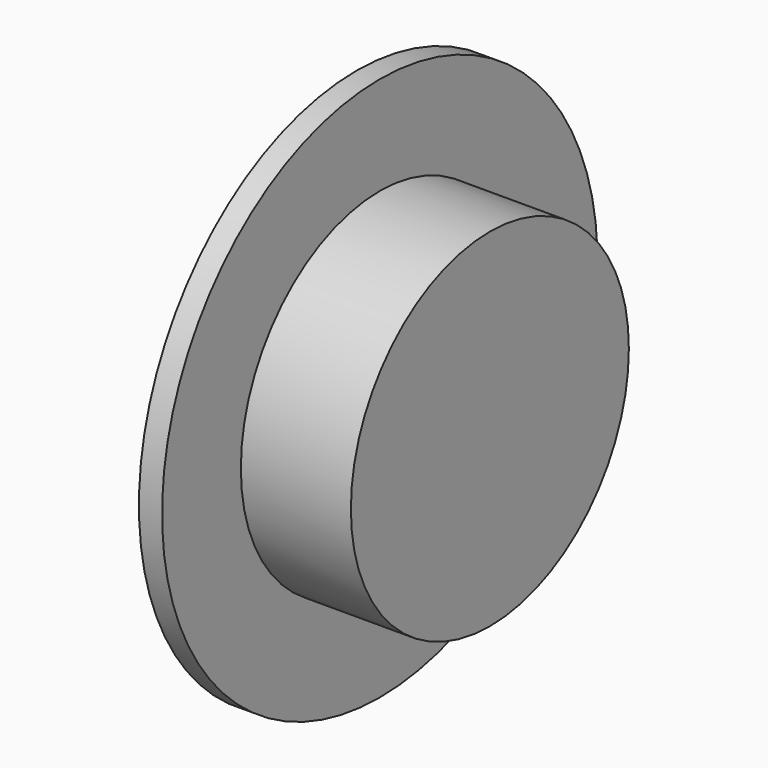
from build123d import *


with BuildPart() as f1:
    # F0 (on Front) → F1 (revolve)
    with BuildSketch(Plane.XZ):
        with BuildLine():
            Line((0, 47), (0, 10.392305))
            ThreePointArc((0, 10.392305), (-2.965476, 5.567764), (-4, 0))
            Line((-4, 0), (0, 0))
            Line((0, 0), (23, 0))
            Line((23, 0), (23, 30))
            Line((23, 30), (4, 30))
            Line((4, 30), (4, 47))
            Line((4, 47), (0, 47))
        make_face()
    revolve(axis=Axis((11.5, 0, 0), (-1, 0, 0)))


solid = f1.part
